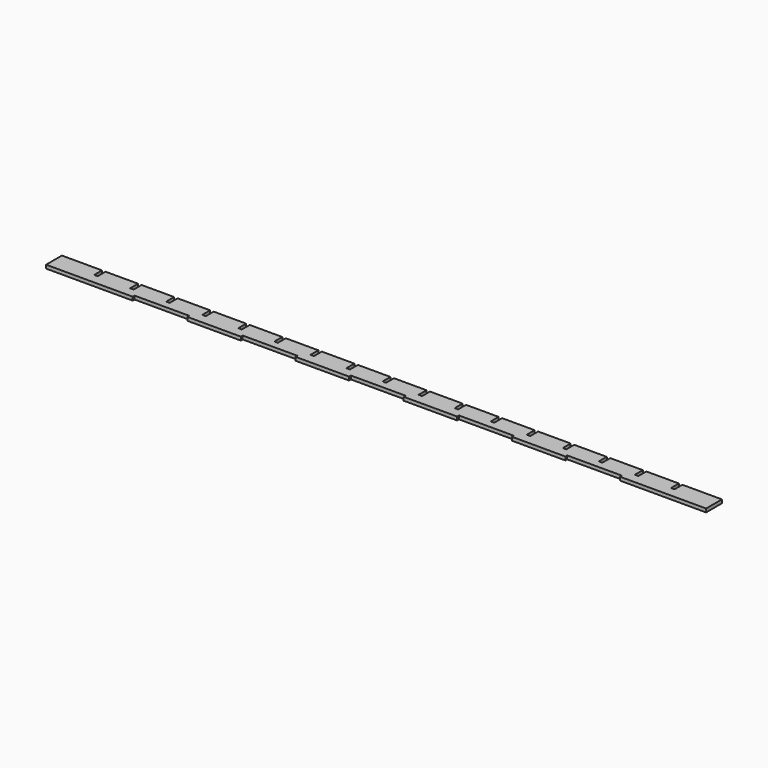
from build123d import *

# Parameters (mm, degrees)
PAD_DEPTH = 3


with BuildPart() as part:
    # Sketch → Pad (new body)
    with BuildSketch(Plane.XY):
        Polygon((0, 0), (0, 17), (34.5, 17), (34.5, 8.5), (37.5, 8.5), (37.5, 17), (65.5, 17), (65.5, 8.5), (68.5, 8.5), (68.5, 17), (96.5, 17), (96.5, 8.5), (99.5, 8.5), (99.5, 17), (127.5, 17), (127.5, 8.5), (130.5, 8.5), (130.5, 17), (158.5, 17), (158.5, 8.5), (161.5, 8.5), (161.5, 17), (189.5, 17), (189.5, 8.5), (192.5, 8.5), (192.5, 17), (220.5, 17), (220.5, 8.5), (223.5, 8.5), (223.5, 17), (251.5, 17), (251.5, 8.5), (254.5, 8.5), (254.5, 17), (282.5, 17), (282.5, 8.5), (285.5, 8.5), (285.5, 17), (313.5, 17), (313.5, 8.5), (316.5, 8.5), (316.5, 17), (344.5, 17), (344.5, 8.5), (347.5, 8.5), (347.5, 17), (375.5, 17), (375.5, 8.5), (378.5, 8.5), (378.5, 17), (406.5, 17), (406.5, 8.5), (409.5, 8.5), (409.5, 17), (437.5, 17), (437.5, 8.5), (440.5, 8.5), (440.5, 17), (468.5, 17), (468.5, 8.5), (471.5, 8.5), (471.5, 17), (499.5, 17), (499.5, 8.5), (502.5, 8.5), (502.5, 17), (530.5, 17), (530.5, 8.5), (533.5, 8.5), (533.5, 17), (567.5, 17), (567.5, 0), (493.5, 0), (493.5, 2), (446.5, 2), (446.5, 0), (400.5, 0), (400.5, 2), (353.5, 2), (353.5, 0), (307.5, 0), (307.5, 2), (260.5, 2), (260.5, 0), (214.5, 0), (214.5, 2), (167.5, 2), (167.5, 0), (121.5, 0), (121.5, 2), (74.5, 2), (74.5, 0), align=None)
    extrude(amount=PAD_DEPTH)


solid = part.part
